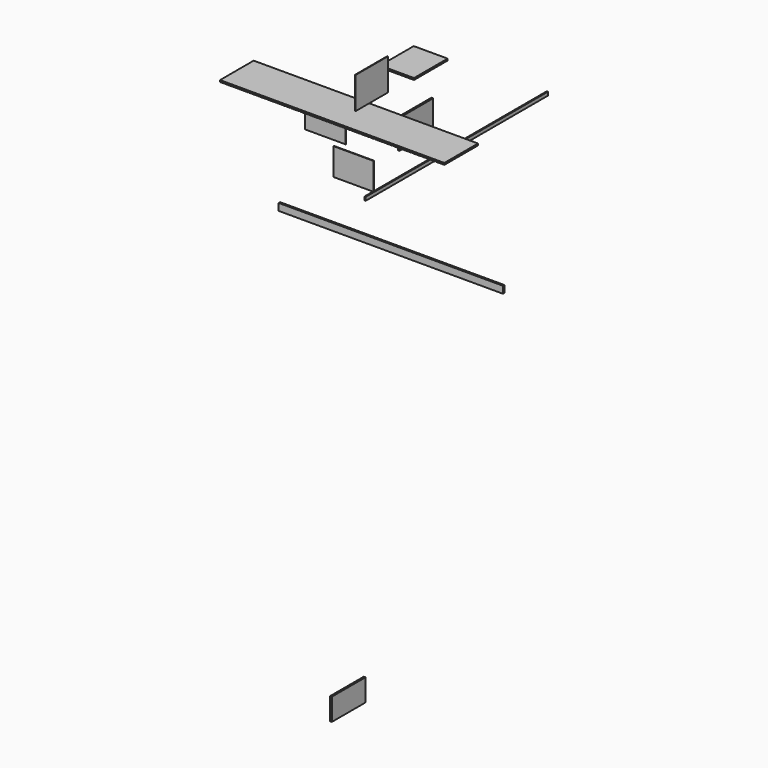
from build123d import *

# Parameters (mm, degrees)
F0_W      = 47.625
F0_H      = 457.2
F0_W_2    = 6.35
F0_W_3    = 44.45
F1_DEPTH  = 19.05
F2_DEPTH  = 8.255
F3_W      = 368.3
F3_H      = 457.2
F4_DEPTH  = 19.05
F5_W      = 457.2
F5_H      = 241.3
F6_DEPTH  = 19.05
F7_W      = 438.15
F7_H      = 346.075
F8_DEPTH  = 6.35
F9_W      = 438.15
F9_H      = 219.075
F10_DEPTH = 6.35
F11_W     = 438.15
F11_H     = 295.275
F12_DEPTH = 6.35
F13_W     = 2438.4
F13_H     = 76.2
F14_DEPTH = 19.05
F15_W     = 457.2
F15_H     = 317.5
F16_DEPTH = 19.05
F17_W     = 2476.5
F17_H     = 38.1
F18_DEPTH = 12.7


with BuildPart() as f1:
    # F0 (on Top) → F1 (new body)
    with BuildSketch(Plane.XY):
        with Locations((-1261.30824, 50.599178)):
            Rectangle(F0_W, F0_H)
        with Locations((-1234.32074, 50.599178)):
            Rectangle(F0_W_2, F0_H)
        with Locations((-1208.92074, 50.599178)):
            Rectangle(F0_W_3, F0_H)
        with Locations((-1183.52074, 50.599178)):
            Rectangle(F0_W_2, F0_H)
        with Locations((-1158.12074, 50.599178)):
            Rectangle(F0_W_3, F0_H)
        with Locations((-1132.72074, 50.599178)):
            Rectangle(F0_W_2, F0_H)
        with Locations((-1107.32074, 50.599178)):
            Rectangle(F0_W_3, F0_H)
        with Locations((-1081.92074, 50.599178)):
            Rectangle(F0_W_2, F0_H)
        with Locations((-1056.52074, 50.599178)):
            Rectangle(F0_W_3, F0_H)
        with Locations((-1031.12074, 50.599178)):
            Rectangle(F0_W_2, F0_H)
        with Locations((-1005.72074, 50.599178)):
            Rectangle(F0_W_3, F0_H)
        with Locations((-980.32074, 50.599178)):
            Rectangle(F0_W_2, F0_H)
        with Locations((-954.92074, 50.599178)):
            Rectangle(F0_W_3, F0_H)
        with Locations((-929.52074, 50.599178)):
            Rectangle(F0_W_2, F0_H)
        with Locations((-904.12074, 50.599178)):
            Rectangle(F0_W_3, F0_H)
        with Locations((-878.72074, 50.599178)):
            Rectangle(F0_W_2, F0_H)
        with Locations((-853.32074, 50.599178)):
            Rectangle(F0_W_3, F0_H)
        with Locations((-827.92074, 50.599178)):
            Rectangle(F0_W_2, F0_H)
        with Locations((-802.52074, 50.599178)):
            Rectangle(F0_W_3, F0_H)
        with Locations((-777.12074, 50.599178)):
            Rectangle(F0_W_2, F0_H)
        with Locations((-751.72074, 50.599178)):
            Rectangle(F0_W_3, F0_H)
        with Locations((-726.32074, 50.599178)):
            Rectangle(F0_W_2, F0_H)
        with Locations((-700.92074, 50.599178)):
            Rectangle(F0_W_3, F0_H)
        with Locations((-675.52074, 50.599178)):
            Rectangle(F0_W_2, F0_H)
        with Locations((-650.12074, 50.599178)):
            Rectangle(F0_W_3, F0_H)
        with Locations((-624.72074, 50.599178)):
            Rectangle(F0_W_2, F0_H)
        with Locations((-599.32074, 50.599178)):
            Rectangle(F0_W_3, F0_H)
        with Locations((-573.92074, 50.599178)):
            Rectangle(F0_W_2, F0_H)
        with Locations((-548.52074, 50.599178)):
            Rectangle(F0_W_3, F0_H)
        with Locations((-523.12074, 50.599178)):
            Rectangle(F0_W_2, F0_H)
        with Locations((-497.72074, 50.599178)):
            Rectangle(F0_W_3, F0_H)
        with Locations((-472.32074, 50.599178)):
            Rectangle(F0_W_2, F0_H)
        with Locations((-446.92074, 50.599178)):
            Rectangle(F0_W_3, F0_H)
        with Locations((-421.52074, 50.599178)):
            Rectangle(F0_W_2, F0_H)
        with Locations((-396.12074, 50.599178)):
            Rectangle(F0_W_3, F0_H)
        with Locations((-370.72074, 50.599178)):
            Rectangle(F0_W_2, F0_H)
        with Locations((-345.32074, 50.599178)):
            Rectangle(F0_W_3, F0_H)
        with Locations((-319.92074, 50.599178)):
            Rectangle(F0_W_2, F0_H)
        with Locations((-294.52074, 50.599178)):
            Rectangle(F0_W_3, F0_H)
        with Locations((-269.12074, 50.599178)):
            Rectangle(F0_W_2, F0_H)
        with Locations((-243.72074, 50.599178)):
            Rectangle(F0_W_3, F0_H)
        with Locations((-218.32074, 50.599178)):
            Rectangle(F0_W_2, F0_H)
        with Locations((-192.92074, 50.599178)):
            Rectangle(F0_W_3, F0_H)
        with Locations((-167.52074, 50.599178)):
            Rectangle(F0_W_2, F0_H)
        with Locations((-142.12074, 50.599178)):
            Rectangle(F0_W_3, F0_H)
        with Locations((-116.72074, 50.599178)):
            Rectangle(F0_W_2, F0_H)
        with Locations((-91.32074, 50.599178)):
            Rectangle(F0_W_3, F0_H)
        with Locations((-65.92074, 50.599178)):
            Rectangle(F0_W_2, F0_H)
        with Locations((-40.52074, 50.599178)):
            Rectangle(F0_W_3, F0_H)
        with Locations((-15.12074, 50.599178)):
            Rectangle(F0_W_2, F0_H)
        with Locations((10.27926, 50.599178)):
            Rectangle(F0_W_3, F0_H)
        with Locations((35.67926, 50.599178)):
            Rectangle(F0_W_2, F0_H)
        with Locations((61.07926, 50.599178)):
            Rectangle(F0_W_3, F0_H)
        with Locations((86.47926, 50.599178)):
            Rectangle(F0_W_2, F0_H)
        with Locations((111.87926, 50.599178)):
            Rectangle(F0_W_3, F0_H)
        with Locations((137.27926, 50.599178)):
            Rectangle(F0_W_2, F0_H)
        with Locations((162.67926, 50.599178)):
            Rectangle(F0_W_3, F0_H)
        with Locations((188.07926, 50.599178)):
            Rectangle(F0_W_2, F0_H)
        with Locations((213.47926, 50.599178)):
            Rectangle(F0_W_3, F0_H)
        with Locations((238.87926, 50.599178)):
            Rectangle(F0_W_2, F0_H)
        with Locations((264.27926, 50.599178)):
            Rectangle(F0_W_3, F0_H)
        with Locations((289.67926, 50.599178)):
            Rectangle(F0_W_2, F0_H)
        with Locations((315.07926, 50.599178)):
            Rectangle(F0_W_3, F0_H)
        with Locations((340.47926, 50.599178)):
            Rectangle(F0_W_2, F0_H)
        with Locations((365.87926, 50.599178)):
            Rectangle(F0_W_3, F0_H)
        with Locations((391.27926, 50.599178)):
            Rectangle(F0_W_2, F0_H)
        with Locations((416.67926, 50.599178)):
            Rectangle(F0_W_3, F0_H)
        with Locations((442.07926, 50.599178)):
            Rectangle(F0_W_2, F0_H)
        with Locations((467.47926, 50.599178)):
            Rectangle(F0_W_3, F0_H)
        with Locations((492.87926, 50.599178)):
            Rectangle(F0_W_2, F0_H)
        with Locations((518.27926, 50.599178)):
            Rectangle(F0_W_3, F0_H)
        with Locations((543.67926, 50.599178)):
            Rectangle(F0_W_2, F0_H)
        with Locations((569.07926, 50.599178)):
            Rectangle(F0_W_3, F0_H)
        with Locations((594.47926, 50.599178)):
            Rectangle(F0_W_2, F0_H)
        with Locations((619.87926, 50.599178)):
            Rectangle(F0_W_3, F0_H)
        with Locations((645.27926, 50.599178)):
            Rectangle(F0_W_2, F0_H)
        with Locations((670.67926, 50.599178)):
            Rectangle(F0_W_3, F0_H)
        with Locations((696.07926, 50.599178)):
            Rectangle(F0_W_2, F0_H)
        with Locations((721.47926, 50.599178)):
            Rectangle(F0_W_3, F0_H)
        with Locations((746.87926, 50.599178)):
            Rectangle(F0_W_2, F0_H)
        with Locations((772.27926, 50.599178)):
            Rectangle(F0_W_3, F0_H)
        with Locations((797.67926, 50.599178)):
            Rectangle(F0_W_2, F0_H)
        with Locations((823.07926, 50.599178)):
            Rectangle(F0_W_3, F0_H)
        with Locations((848.47926, 50.599178)):
            Rectangle(F0_W_2, F0_H)
        with Locations((873.87926, 50.599178)):
            Rectangle(F0_W_3, F0_H)
        with Locations((899.27926, 50.599178)):
            Rectangle(F0_W_2, F0_H)
        with Locations((924.67926, 50.599178)):
            Rectangle(F0_W_3, F0_H)
        with Locations((950.07926, 50.599178)):
            Rectangle(F0_W_2, F0_H)
        with Locations((975.47926, 50.599178)):
            Rectangle(F0_W_3, F0_H)
        with Locations((1000.87926, 50.599178)):
            Rectangle(F0_W_2, F0_H)
        with Locations((1026.27926, 50.599178)):
            Rectangle(F0_W_3, F0_H)
        with Locations((1051.67926, 50.599178)):
            Rectangle(F0_W_2, F0_H)
        with Locations((1077.07926, 50.599178)):
            Rectangle(F0_W_3, F0_H)
        with Locations((1102.47926, 50.599178)):
            Rectangle(F0_W_2, F0_H)
        with Locations((1129.46676, 50.599178)):
            Rectangle(F0_W, F0_H)
    extrude(amount=F1_DEPTH)

    # F0 (on Top) → F2 (cut)
    with BuildSketch(Plane.XY):
        with Locations((-1234.32074, 50.599178)):
            Rectangle(F0_W_2, F0_H)
        with Locations((-1183.52074, 50.599178)):
            Rectangle(F0_W_2, F0_H)
        with Locations((-1132.72074, 50.599178)):
            Rectangle(F0_W_2, F0_H)
        with Locations((-1081.92074, 50.599178)):
            Rectangle(F0_W_2, F0_H)
        with Locations((-1031.12074, 50.599178)):
            Rectangle(F0_W_2, F0_H)
        with Locations((-980.32074, 50.599178)):
            Rectangle(F0_W_2, F0_H)
        with Locations((-929.52074, 50.599178)):
            Rectangle(F0_W_2, F0_H)
        with Locations((-878.72074, 50.599178)):
            Rectangle(F0_W_2, F0_H)
        with Locations((-827.92074, 50.599178)):
            Rectangle(F0_W_2, F0_H)
        with Locations((-777.12074, 50.599178)):
            Rectangle(F0_W_2, F0_H)
        with Locations((-726.32074, 50.599178)):
            Rectangle(F0_W_2, F0_H)
        with Locations((-675.52074, 50.599178)):
            Rectangle(F0_W_2, F0_H)
        with Locations((-624.72074, 50.599178)):
            Rectangle(F0_W_2, F0_H)
        with Locations((-573.92074, 50.599178)):
            Rectangle(F0_W_2, F0_H)
        with Locations((-523.12074, 50.599178)):
            Rectangle(F0_W_2, F0_H)
        with Locations((-472.32074, 50.599178)):
            Rectangle(F0_W_2, F0_H)
        with Locations((-421.52074, 50.599178)):
            Rectangle(F0_W_2, F0_H)
        with Locations((-370.72074, 50.599178)):
            Rectangle(F0_W_2, F0_H)
        with Locations((-319.92074, 50.599178)):
            Rectangle(F0_W_2, F0_H)
        with Locations((-269.12074, 50.599178)):
            Rectangle(F0_W_2, F0_H)
        with Locations((-218.32074, 50.599178)):
            Rectangle(F0_W_2, F0_H)
        with Locations((-167.52074, 50.599178)):
            Rectangle(F0_W_2, F0_H)
        with Locations((-116.72074, 50.599178)):
            Rectangle(F0_W_2, F0_H)
        with Locations((-65.92074, 50.599178)):
            Rectangle(F0_W_2, F0_H)
        with Locations((-15.12074, 50.599178)):
            Rectangle(F0_W_2, F0_H)
        with Locations((35.67926, 50.599178)):
            Rectangle(F0_W_2, F0_H)
        with Locations((86.47926, 50.599178)):
            Rectangle(F0_W_2, F0_H)
        with Locations((137.27926, 50.599178)):
            Rectangle(F0_W_2, F0_H)
        with Locations((188.07926, 50.599178)):
            Rectangle(F0_W_2, F0_H)
        with Locations((238.87926, 50.599178)):
            Rectangle(F0_W_2, F0_H)
        with Locations((289.67926, 50.599178)):
            Rectangle(F0_W_2, F0_H)
        with Locations((340.47926, 50.599178)):
            Rectangle(F0_W_2, F0_H)
        with Locations((391.27926, 50.599178)):
            Rectangle(F0_W_2, F0_H)
        with Locations((442.07926, 50.599178)):
            Rectangle(F0_W_2, F0_H)
        with Locations((492.87926, 50.599178)):
            Rectangle(F0_W_2, F0_H)
        with Locations((543.67926, 50.599178)):
            Rectangle(F0_W_2, F0_H)
        with Locations((594.47926, 50.599178)):
            Rectangle(F0_W_2, F0_H)
        with Locations((645.27926, 50.599178)):
            Rectangle(F0_W_2, F0_H)
        with Locations((696.07926, 50.599178)):
            Rectangle(F0_W_2, F0_H)
        with Locations((746.87926, 50.599178)):
            Rectangle(F0_W_2, F0_H)
        with Locations((797.67926, 50.599178)):
            Rectangle(F0_W_2, F0_H)
        with Locations((848.47926, 50.599178)):
            Rectangle(F0_W_2, F0_H)
        with Locations((899.27926, 50.599178)):
            Rectangle(F0_W_2, F0_H)
        with Locations((950.07926, 50.599178)):
            Rectangle(F0_W_2, F0_H)
        with Locations((1000.87926, 50.599178)):
            Rectangle(F0_W_2, F0_H)
        with Locations((1051.67926, 50.599178)):
            Rectangle(F0_W_2, F0_H)
        with Locations((1102.47926, 50.599178)):
            Rectangle(F0_W_2, F0_H)
    extrude(amount=F2_DEPTH, mode=Mode.SUBTRACT)


with BuildPart() as f4:
    # F3 (on face) → F4 (new body)
    with BuildSketch(Plane.XY.offset(19.05)):
        with Locations((-184.15, 1079.664881)):
            Rectangle(F3_W, F3_H)
    extrude(amount=F4_DEPTH)


with BuildPart() as f6:
    # F5 (on Right) → F6 (new body)
    with BuildSketch(Plane.YZ):
        with Locations((-59.695005, -5534.541438)):
            Rectangle(F5_W, F5_H)
    extrude(amount=F6_DEPTH)


with BuildPart() as f8:
    # F7 (on Right) → F8 (new body)
    with BuildSketch(Plane.YZ):
        with Locations((268.878222, 221.745242)):
            Rectangle(F7_W, F7_H)
    extrude(amount=F8_DEPTH)


with BuildPart() as f10:
    # F9 (on Front) → F10 (new body)
    with BuildSketch(Plane.XZ):
        with Locations((-277.071208, -157.718707)):
            Rectangle(F9_W, F9_H)
    extrude(amount=F10_DEPTH)


with BuildPart() as f12:
    # F11 (on Front) → F12 (new body)
    with BuildSketch(Plane.XZ):
        with Locations((28.967619, -474.619602)):
            Rectangle(F11_W, F11_H)
    extrude(amount=F12_DEPTH)


with BuildPart() as f14:
    # F13 (on Front) → F14 (new body)
    with BuildSketch(Plane.XZ):
        with Locations((443.794131, -1094.014233)):
            Rectangle(F13_W, F13_H)
    extrude(amount=F14_DEPTH)


with BuildPart() as f16:
    # F15 (on Right) → F16 (new body)
    with BuildSketch(Plane.YZ):
        with Locations((860.513091, -405.25527)):
            Rectangle(F15_W, F15_H)
    extrude(amount=F16_DEPTH)


with BuildPart() as f18:
    # F17 (on Right) → F18 (new body)
    with BuildSketch(Plane.YZ):
        with Locations((1417.598069, -841.245827)):
            Rectangle(F17_W, F17_H)
    extrude(amount=F18_DEPTH)


solid = Compound([f1.part, f4.part, f6.part, f8.part, f10.part, f12.part, f14.part, f16.part, f18.part])
